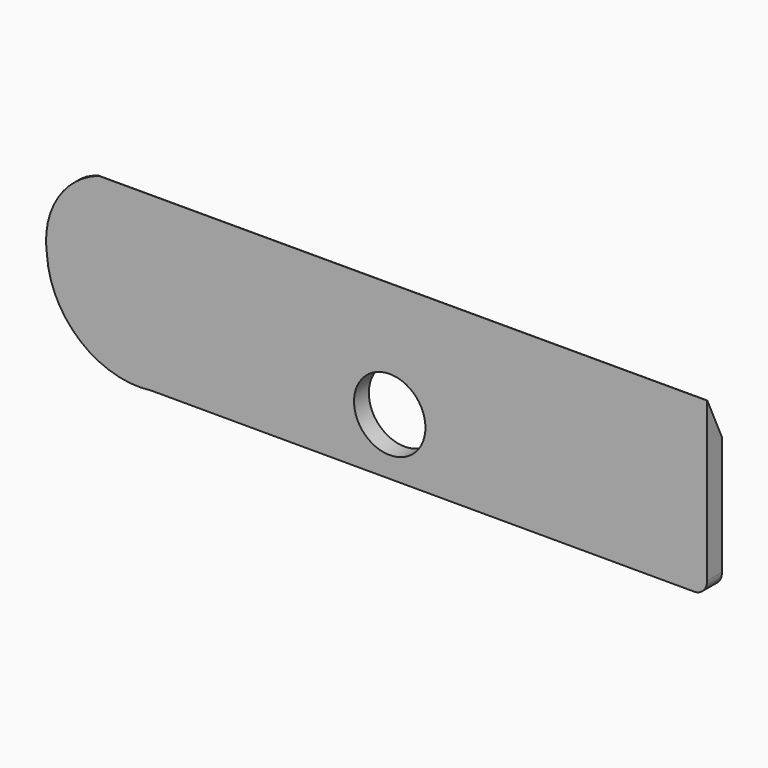
from build123d import *

# Parameters (mm, degrees)
F0_R     = 1.35
F1_DEPTH = 0.7
F2_R     = 1.35
F3_DEPTH = 25
F5_DEPTH = 25


with BuildPart() as f1:
    # F0 (on Front) → F1 (new body)
    with BuildSketch(Plane.XZ):
        with BuildLine():
            Line((-21, 0), (-0.5443152335, -0.0158934575))
            ThreePointArc((-0.5443152335, -0.0158934575), (-0.1558427945, 0.1191114487), (0, 0.499703335))
            Line((0, 0.499703335), (0, 4.9841065425))
            Line((0, 4.9841065425), (-24.6915577171, 4.9841065425))
            ThreePointArc((-24.6915577171, 4.9841065425), (-24.951684375, 4.1365627533), (-24.95, 3.25))
            ThreePointArc((-24.95, 3.25), (-23.6789862708, 0.769385917), (-21, 0))
        make_face()
        with Locations((-12.475, 2.15)):
            Circle(F0_R, mode=Mode.SUBTRACT)
        with BuildLine():
            Line((-24.6915577171, 4.9841065425), (0, 4.9841065425))
            Line((0, 4.9841065425), (0, 6.5))
            Line((0, 6.5), (-23, 6.5))
            ThreePointArc((-23, 6.5), (-23.9964550111, 5.9101900274), (-24.6915577171, 4.9841065425))
        make_face()
        with Locations((-12.475, 2.15)):
            Circle(F0_R)
    extrude(amount=F1_DEPTH)

    # F2 (on face) → F3 (cut)
    with BuildSketch(Plane.XZ.offset(0.7)):
        with Locations((-11.9948536158, 2.1341065425)):
            Circle(F2_R)
    extrude(amount=-F3_DEPTH, mode=Mode.SUBTRACT)

    # F4 (on Right) → F5 (cut)
    with BuildSketch(Plane.YZ):
        Polygon((-0.7018046454, 6.5234168433), (0, 5), (0, 6.521099247), align=None)
    extrude(amount=-F5_DEPTH, mode=Mode.SUBTRACT)


solid = f1.part
